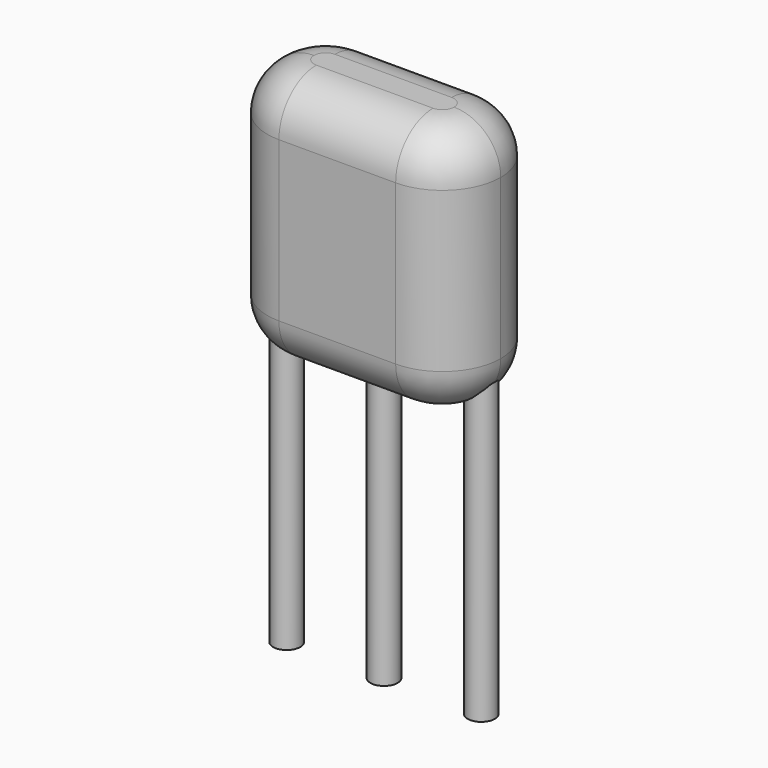
from build123d import *

# Parameters (mm, degrees)
SKETCH_R     = 0.35
PAD_DEPTH    = 8
PAD002_DEPTH = 6.5
FILLET_R     = 1.2
FILLET001_R  = 1.2


with BuildPart() as pad:
    # Sketch → Pad (new body)
    with BuildSketch(Plane.XY.offset(4)):
        Circle(SKETCH_R)
        with Locations((5, 0)):
            Circle(SKETCH_R)
        with Locations((2.5, 0)):
            Circle(SKETCH_R)
    extrude(amount=-PAD_DEPTH)


with BuildPart() as fillet001:
    # Sketch003 → Pad002 (new body)
    with BuildSketch(Plane.XY.offset(3)):
        with BuildLine():
            Line((1, 1.5), (4, 1.5))
            ThreePointArc((5.5, 0), (5.06066, 1.06066), (4, 1.5))
            ThreePointArc((4, -1.5), (5.06066, -1.06066), (5.5, 0))
            Line((4, -1.5), (1, -1.5))
            ThreePointArc((-0.5, 0), (-0.06066, -1.06066), (1, -1.5))
            ThreePointArc((1, 1.5), (-0.06066, 1.06066), (-0.5, 0))
        make_face()
    extrude(amount=PAD002_DEPTH)

    # Fillet
    fillet_edges = [fillet001.edges().sort_by_distance(p)[0] for p in [
        (2.5, 1.5, 9.5),
        (-0.06066, 1.06066, 9.5),
        (-0.06066, -1.06066, 9.5),
        (2.5, -1.5, 9.5),
        (5.06066, -1.06066, 9.5),
        (5.06066, 1.06066, 9.5),
    ]]
    fillet(fillet_edges, radius=FILLET_R)

    # Fillet001
    fillet001_edges = [fillet001.edges().sort_by_distance(p)[0] for p in [
        (5.06066, -1.06066, 3),
        (5.06066, 1.06066, 3),
        (2.5, 1.5, 3),
        (2.5, -1.5, 3),
        (-0.06066, -1.06066, 3),
        (-0.06066, 1.06066, 3),
    ]]
    fillet(fillet001_edges, radius=FILLET001_R)


solid = Compound([pad.part, fillet001.part])
